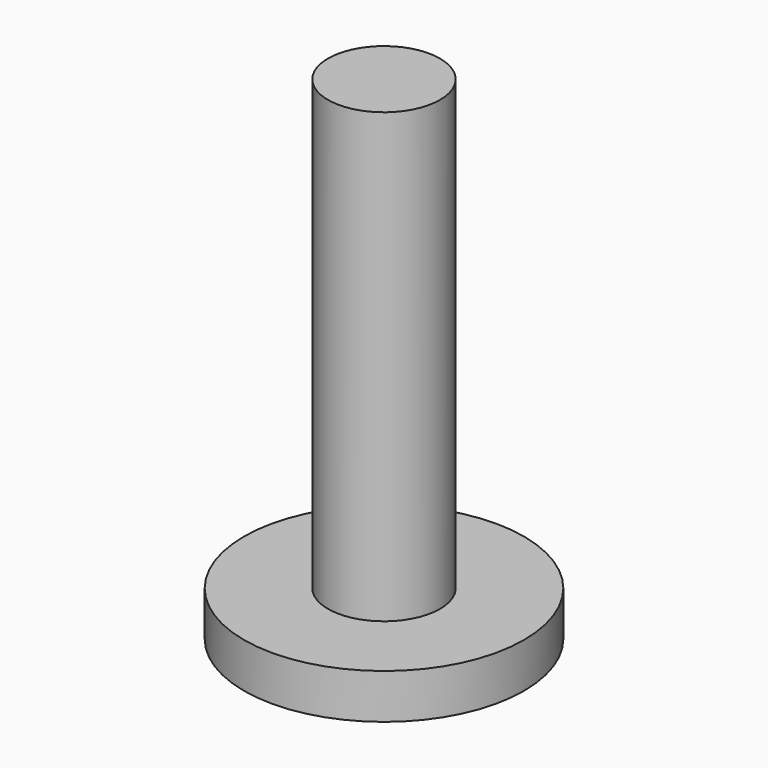
from build123d import *

# Parameters (mm, degrees)
F0_W     = 6.35
F0_H     = 50.8
F2_R     = 15.875
F3_DEPTH = 5.08


with BuildPart() as f1:
    # F0 (on Front) → F1 (revolve)
    with BuildSketch(Plane.XZ):
        with Locations((3.175, 25.4)):
            Rectangle(F0_W, F0_H)
    revolve(axis=Axis((0, 0, 25.4), (0, 0, 1)))

    # F2 (on Top) → F3 (join)
    with BuildSketch(Plane.XY):
        Circle(F2_R)
    extrude(amount=-F3_DEPTH)


solid = f1.part
